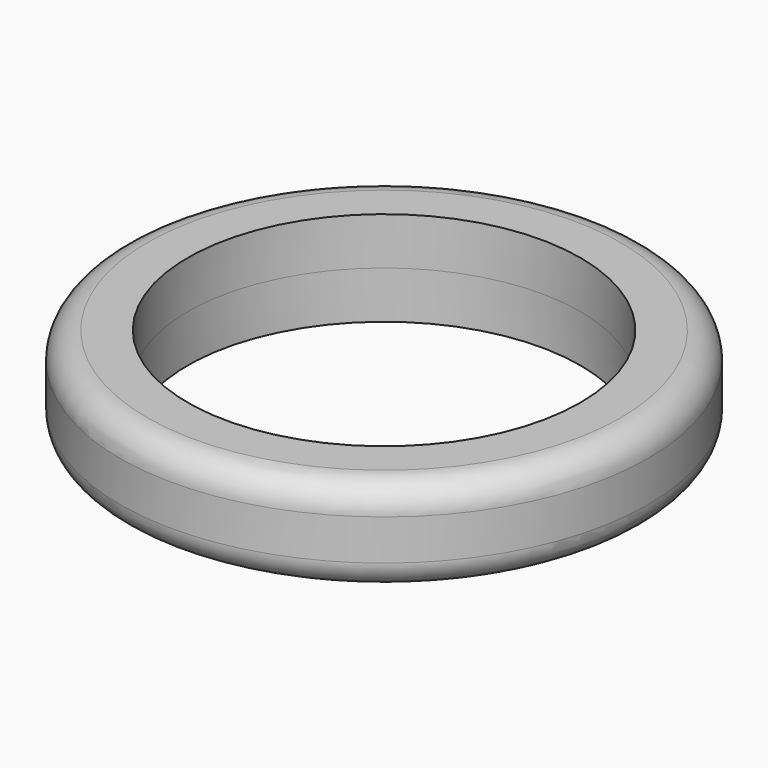
from build123d import *

# Parameters (mm, degrees)
F0_R     = 19.5
F0_R_2   = 14.5
F1_DEPTH = 3.5
F2_R     = 2


with BuildPart() as f1:
    # F0 (on Top) → F1 (new body)
    with BuildSketch(Plane.XY):
        Circle(F0_R)
        Circle(F0_R_2, mode=Mode.SUBTRACT)
    extrude(amount=F1_DEPTH)

    # F2
    f2_edges = [f1.edges().sort_by_distance(p)[0] for p in [
        (-19.5, 0, 3.5),
    ]]
    fillet(f2_edges, radius=F2_R)

    # F3: F1 across plane


with BuildPart() as f1_1:
    add(f1.part)
    add(f1.part.mirror(Plane.XY))


solid = f1_1.part
